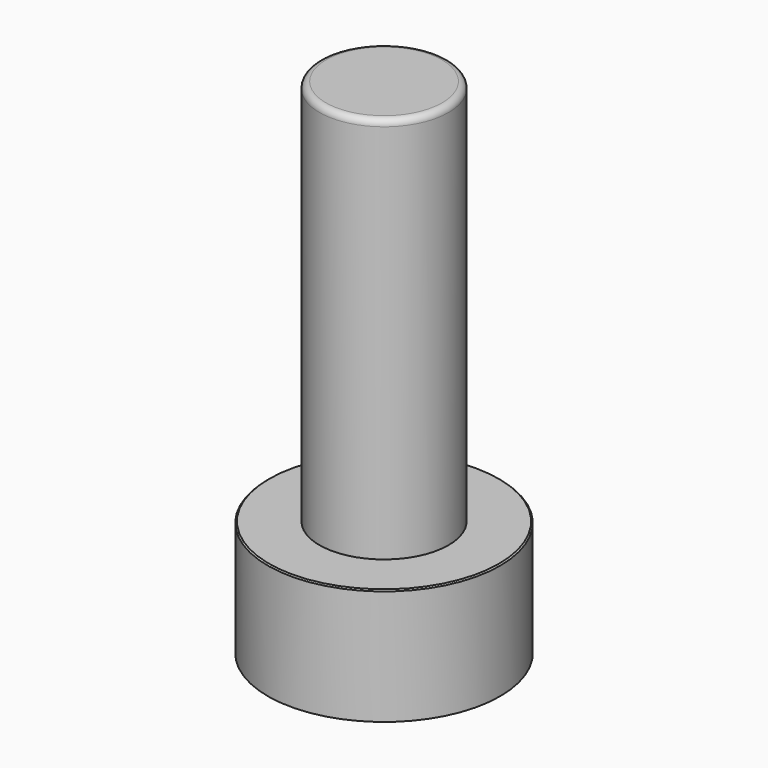
from build123d import *

# Parameters (mm, degrees)
F0_R     = 9
F1_DEPTH = 9
F2_R     = 5
F3_DEPTH = 30
F4_R     = 7.5
F5_DEPTH = 3
F6_R     = 0.5
F7_SIZE  = 0.1


with BuildPart() as f1:
    # F0 (on Top) → F1 (new body)
    with BuildSketch(Plane.XY):
        Circle(F0_R)
    extrude(amount=F1_DEPTH)

    # F2 (on face) → F3 (join)
    with BuildSketch(Plane.XY.offset(9)):
        Circle(F2_R)
    extrude(amount=F3_DEPTH)

    # F4 (on face) → F5 (cut)
    with BuildSketch(Plane(origin=(0, 0, 0), x_dir=(1, 0, 0), z_dir=(0, 0, -1))):
        Circle(F4_R)
    extrude(amount=-F5_DEPTH, mode=Mode.SUBTRACT)

    # F6
    f6_edges = [f1.edges().sort_by_distance(p)[0] for p in [
        (-7.5, 0, 0),
        (-5, 0, 39),
    ]]
    fillet(f6_edges, radius=F6_R)

    # F7
    f7_edges = [f1.edges().sort_by_distance(p)[0] for p in [
        (-9, 0, 9),
    ]]
    chamfer(f7_edges, length=F7_SIZE)


solid = f1.part
